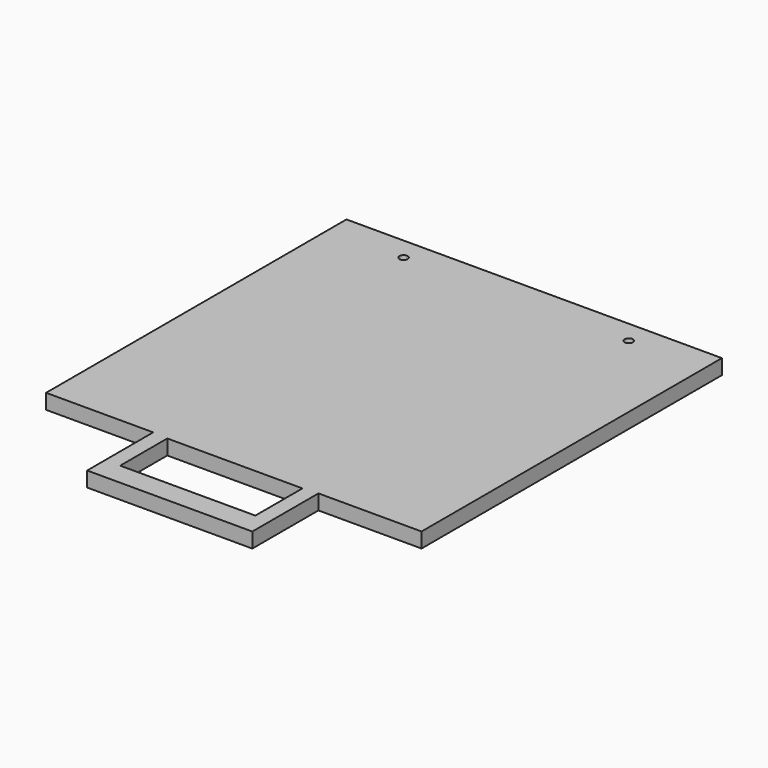
from build123d import *

# Parameters (mm, degrees)
F0_W     = 110
F0_H     = 55
F0_W_2   = 90
F0_H_2   = 39.2125481367
F1_DEPTH = 10
F2_D     = 5.5


with BuildPart() as f1:
    # F0 (on Top) → F1 (new body)
    with BuildSketch(Plane.XY):
        Polygon((125, -125), (125, 125), (-125, 125), (-125, -125), (-53.6688808352, -125), (56.3311191648, -125), align=None)
        with Locations((1.3311191648, -152.5)):
            Rectangle(F0_W, F0_H)
        with Locations((1.3311191648, -145.3937259316)):
            Rectangle(F0_W_2, F0_H_2, mode=Mode.SUBTRACT)
    extrude(amount=F1_DEPTH)

    # F2 (through all)
    with Locations(Plane(origin=(0, 0, 0), x_dir=(1, 0, 0), z_dir=(0, 0, -1))):
        with Locations((-75, -110), (75, -110)):
            Hole(F2_D / 2)


solid = f1.part
